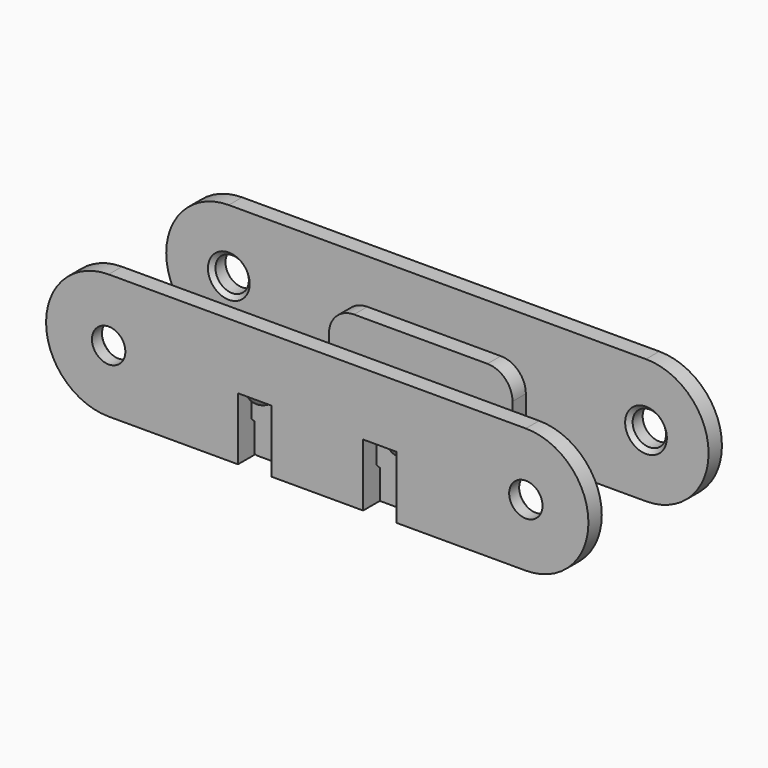
from build123d import *

# Parameters (mm, degrees)
SKETCH004_W     = 22
SKETCH004_H     = 15
PAD003_DEPTH    = 2
SKETCH005_W     = 22
SKETCH005_H     = 2
PAD004_DEPTH    = 8
FILLET_R        = 3
FILLET001_R     = 1.99
SKETCH006_R     = 2
POCKET001_DEPTH = 2.001
SKETCH_W        = 40
SKETCH_H        = 20
PAD_DEPTH       = 2
SKETCH001_R     = 2
PAD001_DEPTH    = 2
SKETCH002_R     = 2
PAD002_DEPTH    = 2
CHAMFER_SIZE    = 0.5
CHAMFER001_SIZE = 1.99
CHAMFER002_SIZE = 2
SKETCH003_W     = 20
SKETCH003_H     = 16
POCKET_DEPTH    = 5
SKETCH007_R     = 2
POCKET002_DEPTH = 5
SKETCH008_W     = 4
SKETCH008_H     = 8
POCKET003_DEPTH = 7.5


with BuildPart() as obj1:
    # Sphere003 → Sphere003 (revolve)
    with BuildSketch(Plane(origin=(-8.5, 7.5, 7.5), x_dir=(1, 0, 0), z_dir=(0, -1, 0))):
        with BuildLine():
            ThreePointArc((0, -1.75), (1.75, 0), (0, 1.75))
            Line((0, 1.75), (0, -1.75))
        make_face()
    revolve(axis=Axis((-8.5, 7.5, 7.5), (0, 0, 1)))


with BuildPart() as fusion002:
    # Sphere002 → Sphere002 (revolve)
    with BuildSketch(Plane(origin=(8.5, 7.5, 7.5), x_dir=(1, 0, 0), z_dir=(0, -1, 0))):
        with BuildLine():
            ThreePointArc((0, -1.75), (1.75, 0), (0, 1.75))
            Line((0, 1.75), (0, -1.75))
        make_face()
    revolve(axis=Axis((8.5, 7.5, 7.5), (0, 0, 1)))

    # Fusion002: union obj1
    add(obj1.part)


with BuildPart() as obj2:
    # Sphere001 → Sphere001 (revolve)
    with BuildSketch(Plane(origin=(8.5, -7.5, 7.5), x_dir=(1, 0, 0), z_dir=(0, -1, 0))):
        with BuildLine():
            ThreePointArc((0, -1.75), (1.75, 0), (0, 1.75))
            Line((0, 1.75), (0, -1.75))
        make_face()
    revolve(axis=Axis((8.5, -7.5, 7.5), (0, 0, 1)))


with BuildPart() as fusion:
    # Sphere → Sphere (revolve)
    with BuildSketch(Plane(origin=(-8.5, -7.5, 7.5), x_dir=(1, 0, 0), z_dir=(0, -1, 0))):
        with BuildLine():
            ThreePointArc((0, -1.75), (1.75, 0), (0, 1.75))
            Line((0, 1.75), (0, -1.75))
        make_face()
    revolve(axis=Axis((-8.5, -7.5, 7.5), (0, 0, 1)))

    # Fusion: union obj2
    add(obj2.part)


with BuildPart() as obj3:
    # Sketch004 → Pad003 (new body)
    with BuildSketch(Plane.XY):
        Rectangle(SKETCH004_W, SKETCH004_H)
    extrude(amount=PAD003_DEPTH)

    # Sketch005 → Pad004 (new body)
    with BuildSketch(Plane.XY.offset(2)):
        with Locations((0, 6.5)):
            Rectangle(SKETCH005_W, SKETCH005_H)
        with Locations((0, -6.5)):
            Rectangle(SKETCH005_W, SKETCH005_H)
    extrude(amount=PAD004_DEPTH)

    # Fusion001: union Fusion
    add(fusion.part)

    # Fusion003: union Fusion002
    add(fusion002.part)

    # Fillet
    fillet_edges = [obj3.edges().sort_by_distance(p)[0] for p in [
        (11, 6.5, 10),
        (11, -6.5, 10),
        (-11, -6.5, 10),
        (-11, 6.5, 10),
    ]]
    fillet(fillet_edges, radius=FILLET_R)

    # Fillet001
    fillet001_edges = [obj3.edges().sort_by_distance(p)[0] for p in [
        (11, 0, 0),
        (-11, 0, 0),
    ]]
    fillet(fillet001_edges, radius=FILLET001_R)

    # Sketch006 → Pocket001 (cut, through all)
    with BuildSketch(Plane.XY.offset(2)):
        Circle(SKETCH006_R)
    extrude(amount=-POCKET001_DEPTH, mode=Mode.SUBTRACT)


with BuildPart() as obj4:
    # Sketch → Pad (new body)
    with BuildSketch(Plane.XY):
        Rectangle(SKETCH_W, SKETCH_H)
    extrude(amount=PAD_DEPTH)

    # Sketch001 → Pad001 (new body)
    with BuildSketch(Plane.XZ.offset(10)):
        with BuildLine():
            ThreePointArc((-25, 15), (-32.5, 7.5), (-25, 0))
            Line((-25, 0), (25, 0))
            ThreePointArc((25, 0), (32.5, 7.5), (25, 15))
            Line((-25, 15), (25, 15))
        make_face()
        with Locations((-25, 7.5)):
            Circle(SKETCH001_R, mode=Mode.SUBTRACT)
        with Locations((25, 7.5)):
            Circle(SKETCH001_R, mode=Mode.SUBTRACT)
    extrude(amount=-PAD001_DEPTH)

    # Sketch002 → Pad002 (new body)
    with BuildSketch(Plane(origin=(0, 10, 0), x_dir=(-1, 0, 0), z_dir=(0, 1, 0))):
        with BuildLine():
            ThreePointArc((-25, 15), (-32.5, 7.5), (-25, 0))
            Line((-25, 0), (25, 0))
            ThreePointArc((25, 0), (32.5, 7.5), (25, 15))
            Line((-25, 15), (25, 15))
        make_face()
        with Locations((-25, 7.5)):
            Circle(SKETCH002_R, mode=Mode.SUBTRACT)
        with Locations((25, 7.5)):
            Circle(SKETCH002_R, mode=Mode.SUBTRACT)
    extrude(amount=-PAD002_DEPTH)

    # Chamfer
    chamfer_edges = [obj4.edges().sort_by_distance(p)[0] for p in [
        (23, -8, 7.5),
        (-27, -8, 7.5),
        (-23, 8, 7.5),
        (27, 8, 7.5),
    ]]
    chamfer(chamfer_edges, length=CHAMFER_SIZE)

    # Chamfer001
    chamfer001_edges = [obj4.edges().sort_by_distance(p)[0] for p in [
        (20, 0, 2),
        (-20, 0, 2),
    ]]
    chamfer(chamfer001_edges, length=CHAMFER001_SIZE)

    # Chamfer002
    chamfer002_edges = [obj4.edges().sort_by_distance(p)[0] for p in [
        (0, -8, 2),
        (0, 8, 2),
    ]]
    chamfer(chamfer002_edges, length=CHAMFER002_SIZE)

    # Sketch003 → Pocket (cut)
    with BuildSketch(Plane(origin=(0, 0, 0), x_dir=(1, 0, 0), z_dir=(0, 0, -1))):
        with Locations((-22.5, 0)):
            Rectangle(SKETCH003_W, SKETCH003_H)
        with Locations((22.5, 0)):
            Rectangle(SKETCH003_W, SKETCH003_H)
    extrude(amount=-POCKET_DEPTH, mode=Mode.SUBTRACT)

    # Sketch007 → Pocket002 (cut)
    with BuildSketch(Plane.XY.offset(2)):
        Circle(SKETCH007_R)
    extrude(amount=-POCKET002_DEPTH, mode=Mode.SUBTRACT)

    # Sketch008 → Pocket003 (cut)
    with BuildSketch(Plane(origin=(0, 0, 0), x_dir=(1, 0, 0), z_dir=(0, 0, -1))):
        with Locations((-7.5, 8)):
            Rectangle(SKETCH008_W, SKETCH008_H)
        with Locations((7.5, 8)):
            Rectangle(SKETCH008_W, SKETCH008_H)
        with Locations((7.5, -8)):
            Rectangle(SKETCH008_W, SKETCH008_H)
        with Locations((-7.5, -8)):
            Rectangle(SKETCH008_W, SKETCH008_H)
    extrude(amount=-POCKET003_DEPTH, mode=Mode.SUBTRACT)


solid = Compound([obj3.part, obj4.part])
